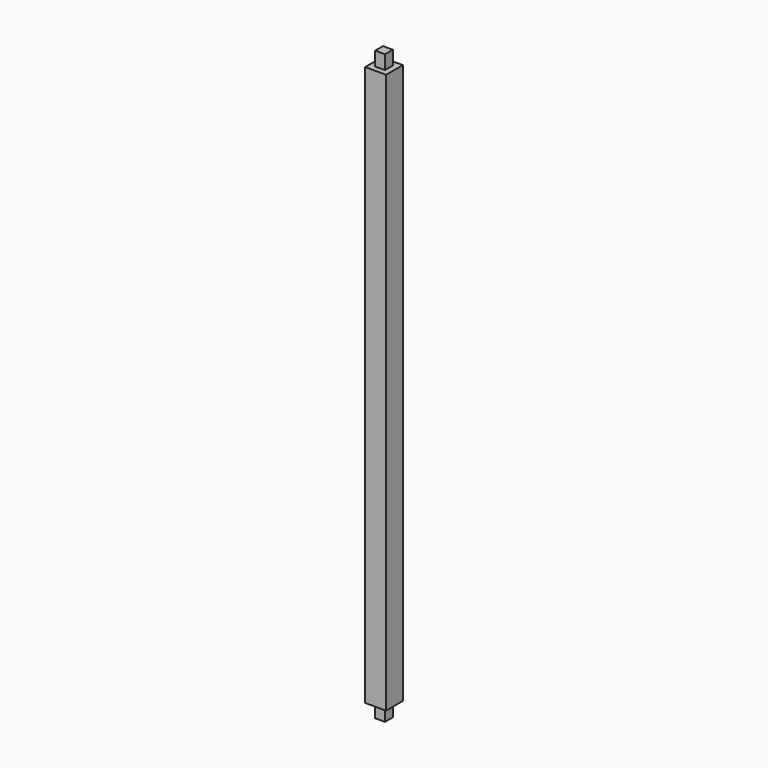
from build123d import *

# Parameters (mm, degrees)
F0_W     = 75
F0_H     = 75
F1_DEPTH = 2000
F2_W     = 35
F2_H     = 35
F4_DEPTH = 50
F3_W     = 35
F3_H     = 35
F5_DEPTH = 50


with BuildPart() as f1:
    # F0 (on Top) → F1 (new body)
    with BuildSketch(Plane.XY):
        Rectangle(F0_W, F0_H)
    extrude(amount=F1_DEPTH)

    # F2 (on face) → F4 (join)
    with BuildSketch(Plane(origin=(0, 0, 0), x_dir=(1, 0, 0), z_dir=(0, 0, -1))):
        Rectangle(F2_W, F2_H)
    extrude(amount=F4_DEPTH)

    # F3 (on face) → F5 (join)
    with BuildSketch(Plane.XY.offset(2000)):
        Rectangle(F3_W, F3_H)
    extrude(amount=F5_DEPTH)


solid = f1.part
